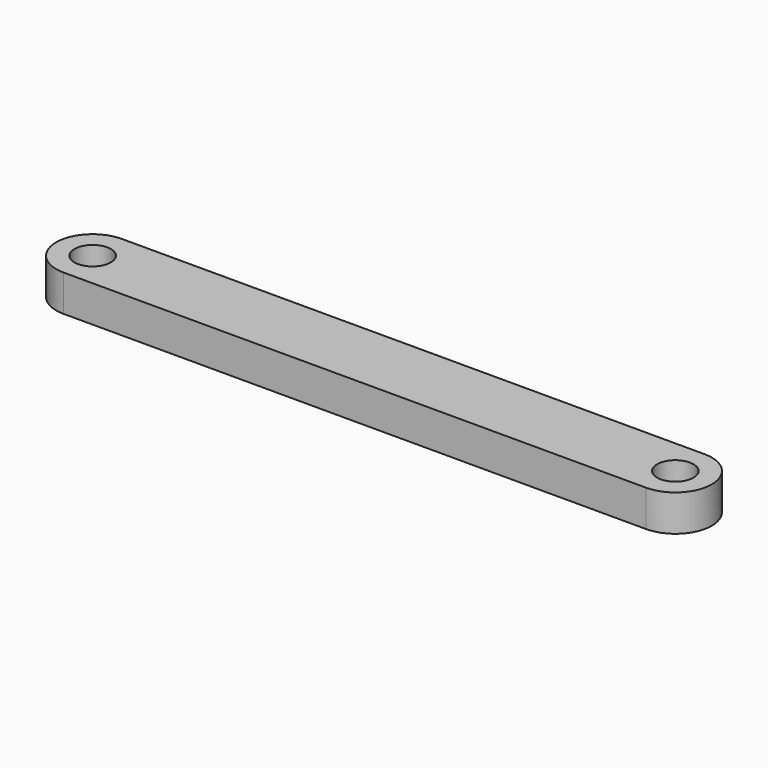
from build123d import *

# Parameters (mm, degrees)
SKETCH_R      = 1.25
EXTRUDE_DEPTH = 2.5


with BuildPart() as part:
    # Sketch → Extrude (new body)
    with BuildSketch(Plane.XY):
        with BuildLine():
            Line((0, 2.5), (40, 2.5))
            ThreePointArc((40, -2.5), (42.500008, 0), (40, 2.5))
            Line((0, -2.5), (40, -2.5))
            ThreePointArc((0, 2.5), (-2.5, 0), (0, -2.5))
        make_face()
        Circle(SKETCH_R, mode=Mode.SUBTRACT)
        with Locations((40.000008, 0)):
            Circle(SKETCH_R, mode=Mode.SUBTRACT)
    extrude(amount=EXTRUDE_DEPTH)


solid = part.part
